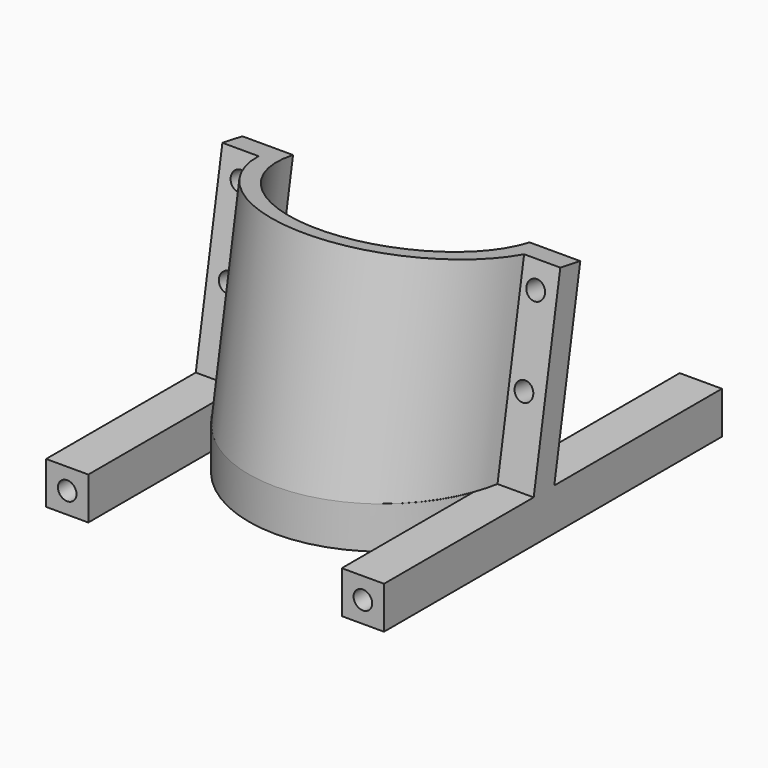
from build123d import *

# Parameters (mm, degrees)
PAD001_DEPTH    = 25
SKETCH002_R     = 1.1
POCKET_DEPTH    = 20.276252
POCKET002_DEPTH = 40.001
SKETCH_R        = 12
PAD_DEPTH       = 5
SKETCH003_R     = 1.1
POCKET001_DEPTH = 50.001


with BuildPart() as f_10degcut:
    # Sketch001 → Pad001 (new body)
    with BuildSketch(Plane(origin=(0, -0.3, 2.2), x_dir=(1, 0, 0), z_dir=(0, 0.173648, 0.984808))):
        with BuildLine():
            Line((-15.716234, -3), (-20, -3))
            Line((-20, -3), (-20, 0))
            Line((-20, 0), (-14, 0))
            ThreePointArc((-14, 0), (0, -14), (14, 0))
            Line((14, 0), (20, 0))
            Line((20, 0), (20, -3))
            Line((20, -3), (15.716234, -3))
            ThreePointArc((-15.716234, -3), (0, -16), (15.716234, -3))
        make_face()
    extrude(amount=PAD001_DEPTH)

    # Sketch002 → Pocket (cut, through all)
    with BuildSketch(Plane(origin=(0, -0.3, 2.2), x_dir=(-1, 0, 0), z_dir=(0, 0.984808, -0.173648))):
        with Locations((-17.5, 22)):
            Circle(SKETCH002_R)
        with Locations((-17.5, 12)):
            Circle(SKETCH002_R)
        with Locations((17.5, 22)):
            Circle(SKETCH002_R)
        with Locations((17.5, 12)):
            Circle(SKETCH002_R)
    extrude(amount=-POCKET_DEPTH, mode=Mode.SUBTRACT)

    # Sketch004 → Pocket002 (cut, through all)
    with BuildSketch(Plane(origin=(20, -0.3, 2.2), x_dir=(0, 0.984808, -0.173648), z_dir=(1, 0, 0))):
        Polygon((0, 0), (0, 2.821232), (-16, 0), align=None)
    extrude(amount=-POCKET002_DEPTH, mode=Mode.SUBTRACT)


with BuildPart() as fusion:
    # Sketch → Pad (new body)
    with BuildSketch(Plane.XY):
        with BuildLine():
            Line((-20, 25), (-20, -25))
            Line((-20, -25), (-15, -25))
            Line((-15, -25), (-15, -5.567764))
            ThreePointArc((-15, -5.567764), (0, -16), (15, -5.567764))
            Line((15, -25), (15, -5.567764))
            Line((20, -25), (15, -25))
            Line((20, 25), (20, -25))
            Line((15, 25), (20, 25))
            Line((15, 5.567764), (15, 25))
            ThreePointArc((15, 5.567764), (0, 16), (-15, 5.567764))
            Line((-15, 25), (-15, 5.567764))
            Line((-20, 25), (-15, 25))
        make_face()
        Circle(SKETCH_R, mode=Mode.SUBTRACT)
    extrude(amount=PAD_DEPTH)

    # Sketch003 → Pocket001 (cut, through all)
    with BuildSketch(Plane(origin=(0, 25, 0), x_dir=(-1, 0, 0), z_dir=(0, 1, 0))):
        with Locations((-17.5, 2.5)):
            Circle(SKETCH003_R)
        with Locations((17.5, 2.5)):
            Circle(SKETCH003_R)
    extrude(amount=-POCKET001_DEPTH, mode=Mode.SUBTRACT)

    # Fusion: union 10degCut
    add(f_10degcut.part)


solid = fusion.part
